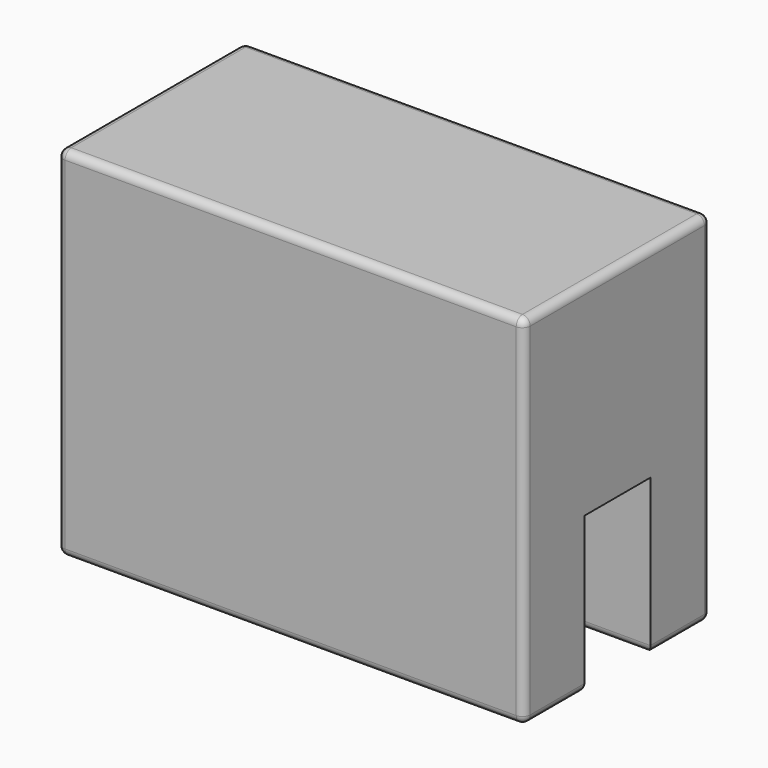
from build123d import *

# Parameters (mm, degrees)
F0_W     = 30
F0_H     = 4.85
F1_DEPTH = 10
F2_W     = 30
F2_H     = 4.85
F2_H_2   = 10.15
F3_DEPTH = 13
F4_R     = 0.5


with BuildPart() as f1:
    # F0 (on Top) → F1 (new body)
    with BuildSketch(Plane.XY):
        with Locations((15, 12.575)):
            Rectangle(F0_W, F0_H)
    extrude(amount=F1_DEPTH)



with BuildPart() as f1b:
    # F0 (on Top) → F1, piece 2 (new body)
    with BuildSketch(Plane.XY):
        with Locations((15, 2.425)):
            Rectangle(F0_W, F0_H)
    extrude(amount=F1_DEPTH)


with BuildPart() as f1_1:
    add(f1.part)

    add(f1b.part)  # F3 merges F1b
    # F2 (on face) → F3 (join)
    with BuildSketch(Plane.XY.offset(10)):
        with Locations((15, 12.575)):
            Rectangle(F2_W, F2_H)
        with Locations((15, 5.075)):
            Rectangle(F2_W, F2_H_2)
    extrude(amount=F3_DEPTH)

    # F4
    f4_edges = [f1_1.edges().sort_by_distance(p)[0] for p in [
        (15, 15, 23),
        (0, 7.5, 23),
        (15, 0, 23),
        (30, 7.5, 23),
        (0, 15, 11.5),
        (30, 15, 11.5),
        (30, 0, 11.5),
        (0, 0, 11.5),
        (0, 2.425, 0),
        (15, 0, 0),
        (30, 2.425, 0),
        (15, 4.85, 0),
        (0, 12.575, 0),
        (30, 12.575, 0),
        (15, 10.15, 0),
        (15, 15, 0),
    ]]
    fillet(f4_edges, radius=F4_R)


solid = f1_1.part
